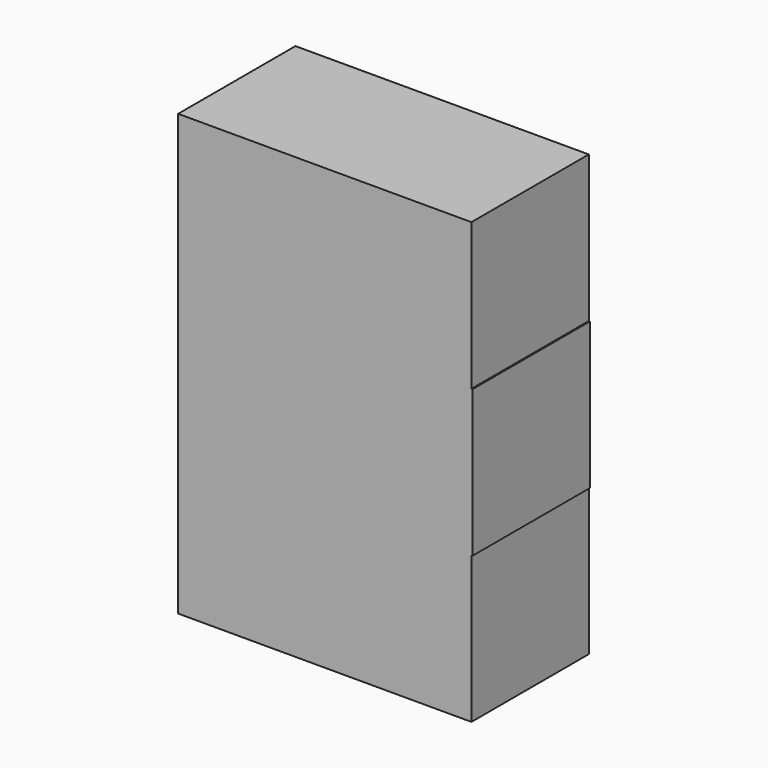
from build123d import *

# Parameters (mm, degrees)
F0_W     = 25.4
F0_H     = 25.4
F1_DEPTH = 25.4


with BuildPart() as f1:
    # F0 (on Front) → F1 (new body)
    with BuildSketch(Plane.XZ):
        with Locations((12.7, 12.7)):
            Rectangle(F0_W, F0_H)
        with Locations((-12.7, 12.7)):
            Rectangle(F0_W, F0_H)
        with Locations((-12.7, -12.7)):
            Rectangle(F0_W, F0_H)
        Polygon((25.4, 0), (0, 0), (0, -25.4), (25.4, -25.4), (25.591951, -25.4), (25.591951, 0), align=None)
        with Locations((-12.7, -38.1)):
            Rectangle(F0_W, F0_H)
        with Locations((12.7, -38.1)):
            Rectangle(F0_W, F0_H)
    extrude(amount=F1_DEPTH)


solid = f1.part
